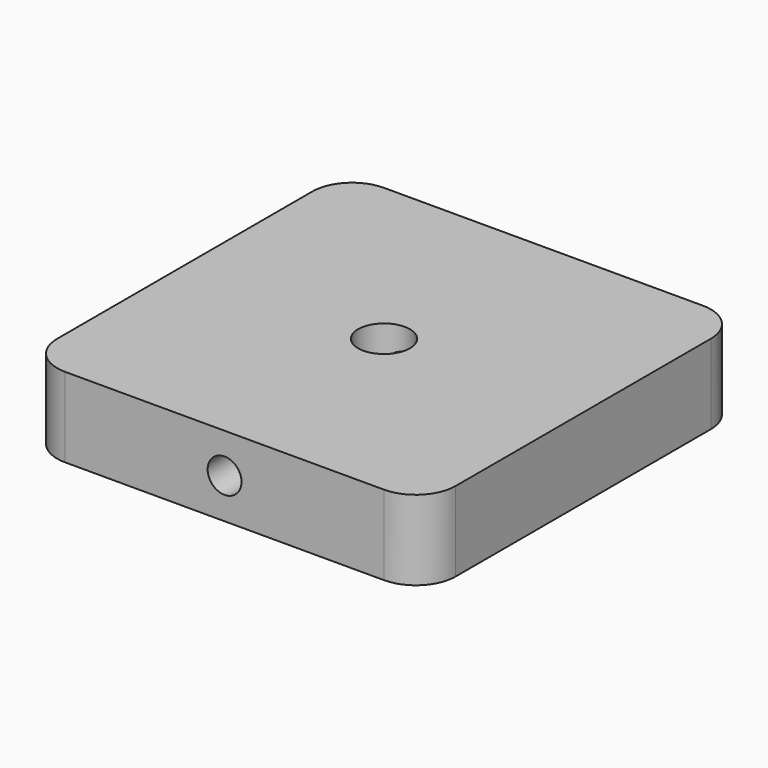
from build123d import *

# Parameters (mm, degrees)
F0_W     = 100
F0_H     = 100
F1_DEPTH = 20
F3_D     = 8.5
F5_D     = 13
F6_R     = 10


with BuildPart() as f1:
    # F0 (on Top) → F1 (new body)
    with BuildSketch(Plane.XY):
        Rectangle(F0_W, F0_H)
    extrude(amount=F1_DEPTH)

    # F3 (through all)
    with Locations(Plane.XZ.offset(50)):
        with Locations((0, 10.0764958188)):
            Hole(F3_D / 2)

    # F5 (through all)
    with Locations(Plane.XY.offset(20)):
        with Locations((0, 0)):
            Hole(F5_D / 2)

    # F6
    f6_edges = [f1.edges().sort_by_distance(p)[0] for p in [
        (50, -50, 10),
        (-50, -50, 10),
        (50, 50, 10),
        (-50, 50, 10),
    ]]
    fillet(f6_edges, radius=F6_R)


solid = f1.part
